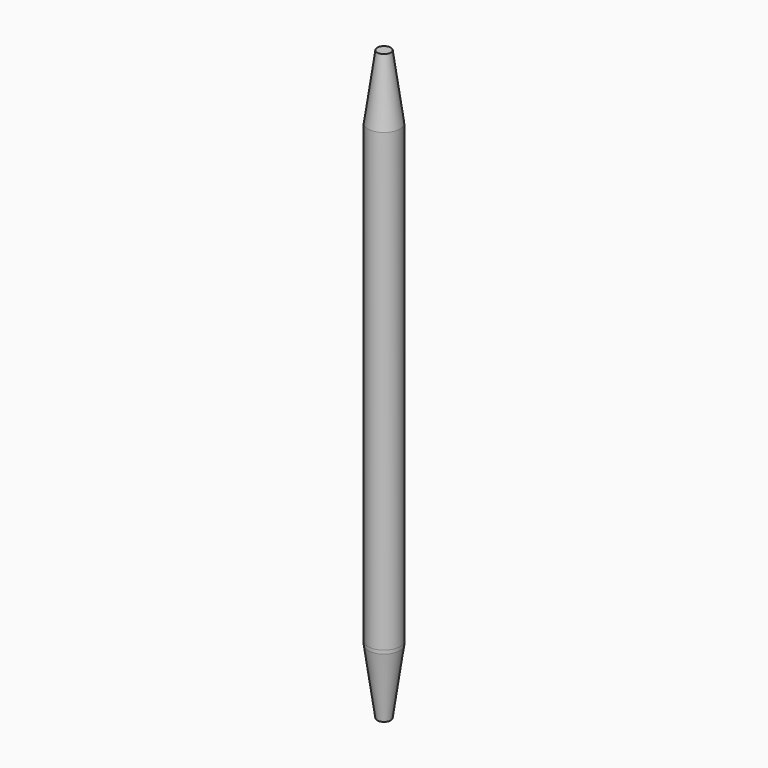
from build123d import *

# Parameters (mm, degrees)
F0_R     = 1.75
F1_DEPTH = 50
F2_R     = 1.75
F3_DEPTH = 7.5
F4_SIZE2 = 7.1153697224
F4_SIZE  = 1
F5_DEPTH = 7.5
F6_SIZE2 = 7.1153697224
F6_SIZE  = 1


with BuildPart() as f1:
    # F0 (on Top) → F1 (new body)
    with BuildSketch(Plane.XY):
        Circle(F0_R)
    extrude(amount=F1_DEPTH)

    # F2 (on face) → F3 (join)
    with BuildSketch(Plane.XY.offset(50)):
        Circle(F2_R)
    extrude(amount=F3_DEPTH)

    # F4
    f4_edges = [f1.edges().sort_by_distance(p)[0] for p in [
        (-1.75, 0, 57.5),
    ]]
    f4_side = f1.faces().sort_by_distance((0, 0, 57.5))[0]
    chamfer(f4_edges, length=F4_SIZE, length2=F4_SIZE2, reference=f4_side)

    # F5 (add): a face of the model
    f5_faces = [f1.faces().sort_by_distance(p)[0] for p in [
        (0, 0, 0),
    ]]
    extrude(f5_faces, amount=F5_DEPTH)

    # F6
    f6_edges = [f1.edges().sort_by_distance(p)[0] for p in [
        (-1.75, 0, -7.5),
    ]]
    f6_side = f1.faces().sort_by_distance((0, 0, -7.5))[0]
    chamfer(f6_edges, length=F6_SIZE, length2=F6_SIZE2, reference=f6_side)


solid = f1.part
